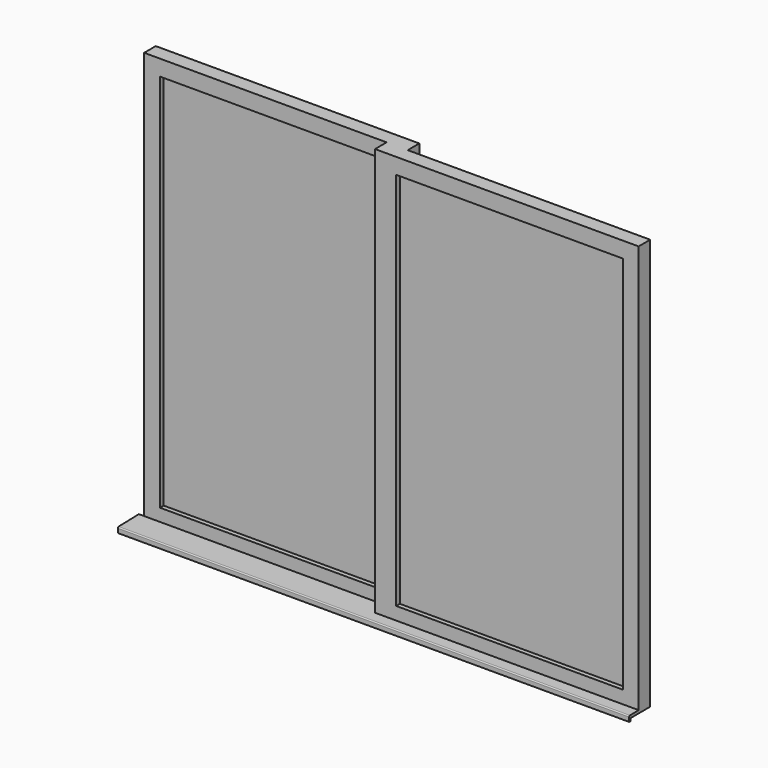
from build123d import *

# Parameters (mm, degrees)
F1_DEPTH       = 1981.2
F2_W           = 1092.2
F2_H           = 1828.8
F3_DEPTH       = 76.2
F3_DEPTH_BACK  = 76.2
F6_W           = 1092.2
F6_H           = 1828.8
F7_DEPTH       = 12.7
F9_W           = 1092.2
F9_H           = 1828.8
F10_DEPTH      = 12.7
F12_DEPTH      = 2438.4
F12_DEPTH_BACK = 25.4
F13_R          = 5.08


with BuildPart() as f1:
    # F0 (on Top) → F1 (new body)
    with BuildSketch(Plane.XY):
        Polygon((0, 69.85), (0, 0), (1168.4, 0), (1168.4, -69.85), (2438.4, -69.85), (2438.4, 0), (1270, 0), (1270, 69.85), align=None)
    extrude(amount=F1_DEPTH)


with BuildPart() as f3:
    # F2 (on face) → F3 (new body, two sides)
    with BuildSketch(Plane.XZ) as f3_sk:
        with Locations((622.3, 990.6)):
            Rectangle(F2_W, F2_H)
    extrude(amount=-F3_DEPTH)
    extrude(f3_sk.sketch, amount=F3_DEPTH_BACK)


with BuildPart() as f3b:
    # F2 (on face) → F3, piece 2 (new body, two sides)
    with BuildSketch(Plane.XZ) as f3_2_sk:
        with Locations((1816.1, 990.6)):
            Rectangle(F2_W, F2_H)
    extrude(amount=-F3_DEPTH)
    extrude(f3_2_sk.sketch, amount=F3_DEPTH_BACK)


with BuildPart() as f1_1:
    add(f1.part)

    # F4: cut F3, F3b
    add(f3.part, mode=Mode.SUBTRACT)
    add(f3b.part, mode=Mode.SUBTRACT)

    # F11 (on face) → F12 (join, two sides)
    with BuildSketch(Plane(origin=(0, 0, 0), x_dir=(0, -1, 0), z_dir=(-1, 0, 0))) as f12_sk:
        Polygon((0, 15.875), (0, 0), (117.475, 0), (117.475, -12.7), (127, -12.7), (127, 12.7), align=None)
    extrude(amount=-F12_DEPTH)
    extrude(f12_sk.sketch, amount=F12_DEPTH_BACK)

    # F13
    f13_edges = [f1_1.edges().sort_by_distance(p)[0] for p in [
        (1206.5, -127, 12.7),
    ]]
    fillet(f13_edges, radius=F13_R)


with BuildPart() as f7:
    # F6 (on offset) → F7 (new body, symmetric)
    with BuildSketch(Plane.XZ.offset(-34.925)):
        with Locations((622.3, 990.6)):
            Rectangle(F6_W, F6_H)
    extrude(amount=F7_DEPTH, both=True)


with BuildPart() as f10:
    # F9 (on offset) → F10 (new body, symmetric)
    with BuildSketch(Plane.XZ.offset(34.925)):
        with Locations((1816.1, 990.6)):
            Rectangle(F9_W, F9_H)
    extrude(amount=F10_DEPTH, both=True)


solid = Compound([f1_1.part, f7.part, f10.part])
